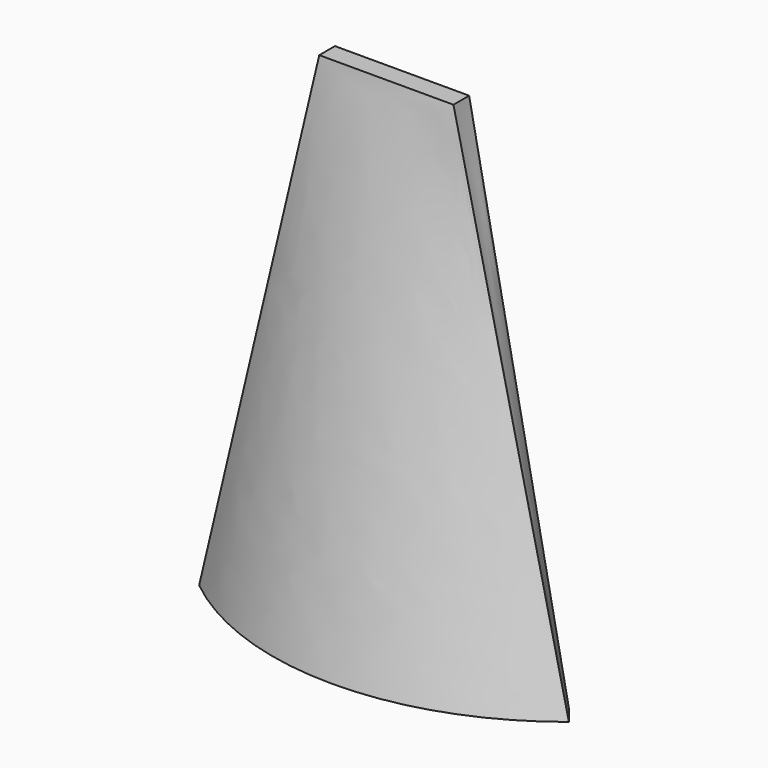
from build123d import *

# Parameters (mm, degrees)
F2_W = 27.357962
F2_H = 4


with BuildPart() as f3:
    # F0 (on Top) → F3 section 0
    with BuildSketch(Plane.XY):
        with BuildLine():
            Line((-34.550472, 3.893524), (-37.687424, 0))
            ThreePointArc((-37.687424, 0), (0, -13.293228), (37.687424, 0))
            Line((37.687424, 0), (34.550472, 3.893524))
            ThreePointArc((34.550472, 3.893524), (0, -8.293228), (-34.550472, 3.893524))
        make_face()
    # F2 (on offset) → F3 section 1
    with BuildSketch(Plane.XY.offset(100)):
        with Locations((-3.256872, 6.67046)):
            Rectangle(F2_W, F2_H)
    loft()


solid = f3.part
